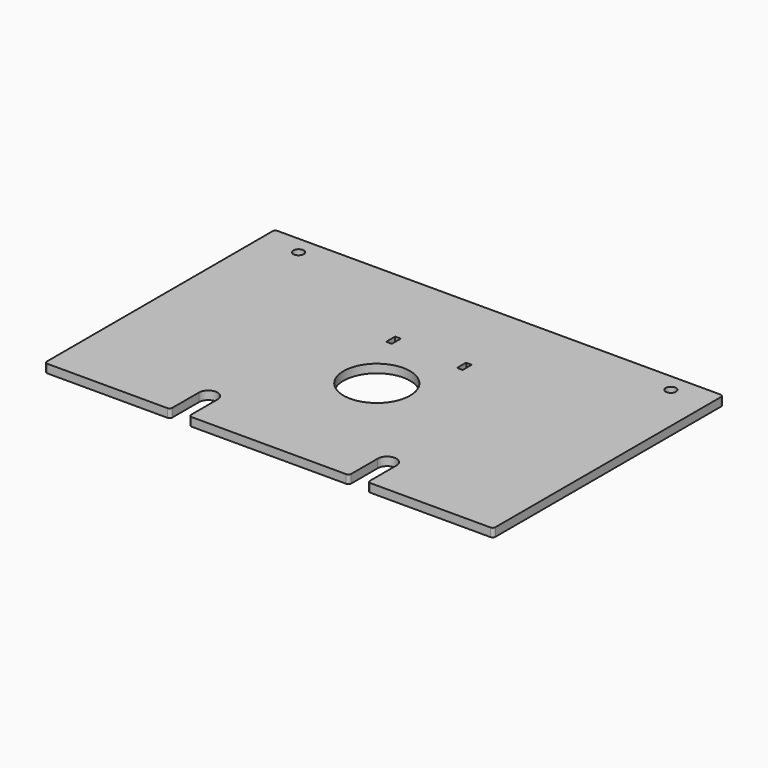
from build123d import *

# Parameters (mm, degrees)
SKETCH_R   = 11.75
SKETCH_R_2 = 1.8288
PAD_DEPTH  = 3


with BuildPart() as part:
    # Sketch → Pad (new body)
    with BuildSketch(Plane.XY):
        with BuildLine():
            ThreePointArc((-78.2, 50.8), (-78.907107, 50.507107), (-79.2, 49.8))
            Line((-79.2, -49.8), (-79.2, 49.8))
            ThreePointArc((-79.2, -49.8), (-78.907107, -50.507107), (-78.2, -50.8))
            Line((-78.2, -50.8), (-35.877, -50.8))
            ThreePointArc((-35.877, -50.8), (-35.169893, -50.507107), (-34.877, -49.8))
            Line((-34.877, -38.1), (-34.877, -49.8))
            ThreePointArc((-28.273, -38.1), (-31.575, -34.798), (-34.877, -38.1))
            Line((-28.273, -38.1), (-28.273, -49.8))
            ThreePointArc((-28.273, -49.8), (-27.980107, -50.507107), (-27.273, -50.8))
            Line((-27.273, -50.8), (27.273, -50.8))
            ThreePointArc((27.273, -50.8), (27.980107, -50.507107), (28.273, -49.8))
            Line((28.273, -38.1), (28.273, -49.8))
            ThreePointArc((34.877, -38.1), (31.575, -34.798), (28.273, -38.1))
            Line((34.877, -38.1), (34.877, -49.8))
            ThreePointArc((34.877, -49.8), (35.169893, -50.507107), (35.877, -50.8))
            Line((35.877, -50.8), (78.2, -50.8))
            ThreePointArc((78.2, -50.8), (78.907107, -50.507107), (79.2, -49.8))
            Line((79.2, 49.8), (79.2, -49.8))
            ThreePointArc((79.2, 49.8), (78.907107, 50.507107), (78.2, 50.8))
            Line((-78.2, 50.8), (78.2, 50.8))
        make_face()
        with Locations((0, -3.175)):
            Circle(SKETCH_R, mode=Mode.SUBTRACT)
        with Locations((-65.7352, 44.45)):
            Circle(SKETCH_R_2, mode=Mode.SUBTRACT)
        with Locations((65.7352, 44.45)):
            Circle(SKETCH_R_2, mode=Mode.SUBTRACT)
        with BuildLine():
            ThreePointArc((-13.3, 21.825), (-13.441421, 21.766421), (-13.5, 21.625))
            Line((-13.5, 18.025), (-13.5, 21.625))
            ThreePointArc((-13.5, 18.025), (-13.441421, 17.883579), (-13.3, 17.825))
            Line((-11.7, 17.825), (-13.3, 17.825))
            ThreePointArc((-11.7, 17.825), (-11.558579, 17.883579), (-11.5, 18.025))
            Line((-11.5, 21.625), (-11.5, 18.025))
            ThreePointArc((-11.5, 21.625), (-11.558579, 21.766421), (-11.7, 21.825))
            Line((-13.3, 21.825), (-11.7, 21.825))
        make_face(mode=Mode.SUBTRACT)
        with BuildLine():
            ThreePointArc((11.7, 21.825), (11.558579, 21.766421), (11.5, 21.625))
            Line((11.5, 18.025), (11.5, 21.625))
            ThreePointArc((11.5, 18.025), (11.558579, 17.883579), (11.7, 17.825))
            Line((13.3, 17.825), (11.7, 17.825))
            ThreePointArc((13.3, 17.825), (13.441421, 17.883579), (13.5, 18.025))
            Line((13.5, 21.625), (13.5, 18.025))
            ThreePointArc((13.5, 21.625), (13.441421, 21.766421), (13.3, 21.825))
            Line((11.7, 21.825), (13.3, 21.825))
        make_face(mode=Mode.SUBTRACT)
    extrude(amount=PAD_DEPTH)


solid = part.part
